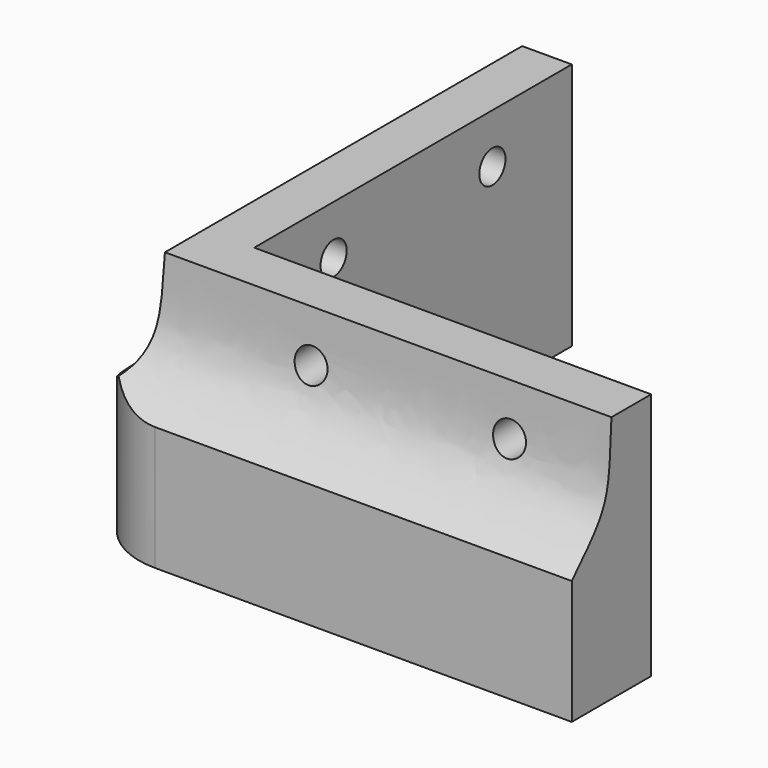
from build123d import *

# Parameters (mm, degrees)
F1_DEPTH = 25
F3_DEPTH = 50.001
F5_DEPTH = 50.0010001
F7_D     = 3.3
F9_D     = 3.3


with BuildPart() as f1:
    # F0 (on Top) → F1 (new body)
    with BuildSketch(Plane.XY):
        with BuildLine():
            Line((0, 50), (0, 8))
            ThreePointArc((0, 8), (2.3431457505, 2.3431457505), (8, 0))
            Line((8, 0), (50, 0))
            Line((50, 0), (50, 10))
            Line((50, 10), (10, 10))
            Line((10, 10), (10, 50))
            Line((10, 50), (0, 50))
        make_face()
    extrude(amount=F1_DEPTH)

    # F2 (on face) → F3 (cut, through all)
    with BuildSketch(Plane.YZ.offset(50)):
        with BuildLine():
            add(Edge.make_bspline(
                [(5, 25), (4.6534377741, 17.5), (4.6950438991, 17.3452608287), (0, 12.5)],
                knots=[0, 0, 0, 0, 13.4629120178, 13.4629120178, 13.4629120178, 13.4629120178], degree=3))
            Line((5, 25), (0, 25))
            Line((0, 25), (0, 12.5))
        make_face()
    extrude(amount=-F3_DEPTH, mode=Mode.SUBTRACT)

    # F4 (on face) → F5 (cut, through all)
    with BuildSketch(Plane(origin=(0, 50, 0), x_dir=(-1, 0, 0), z_dir=(0, 1, 0))):
        with BuildLine():
            Line((0, 25), (-5, 25))
            add(Edge.make_bspline(
                [(-5, 25), (-4.6829669736, 15.6825594604), (-4.6829669736, 15.6825594604), (0, 12.5)],
                knots=[0, 0, 0, 0, 13.4629120178, 13.4629120178, 13.4629120178, 13.4629120178], degree=3))
            Line((0, 12.5), (0, 25))
        make_face()
    extrude(amount=-F5_DEPTH, mode=Mode.SUBTRACT)

    # F7 (through all)
    with Locations(Plane(origin=(0, 10, 0), x_dir=(-1, 0, 0), z_dir=(0, 1, 0))):
        with Locations((-40, 20), (-20, 20)):
            Hole(F7_D / 2)

    # F9 (through all)
    with Locations(Plane.YZ.offset(10)):
        with Locations((20, 20), (40, 20)):
            Hole(F9_D / 2)


solid = f1.part
